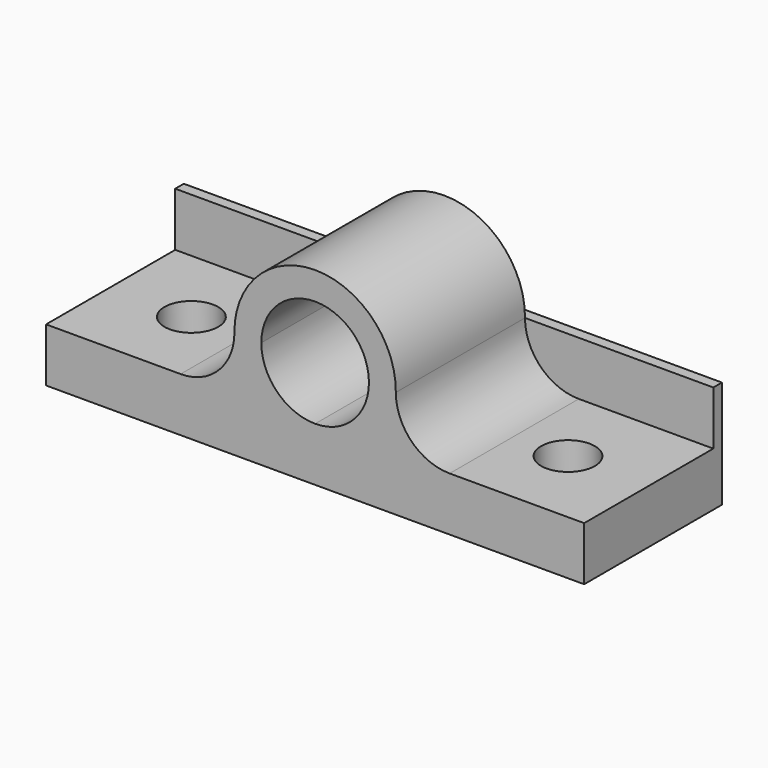
from build123d import *

# Parameters (mm, degrees)
F0_W     = 127
F0_H     = 25.4
F1_DEPTH = 2.54
F3_DEPTH = 38.1
F4_R     = 6.35
F5_DEPTH = 25.4


with BuildPart() as f1:
    # F0 (on Front) → F1 (new body)
    with BuildSketch(Plane.XZ):
        with Locations((-2.625061, -9.665867)):
            Rectangle(F0_W, F0_H)
        with Locations((-2.625061, -9.665867)):
            Rectangle(F0_W, F0_H)
    extrude(amount=F1_DEPTH)

    # F2 (on face) → F3 (join)
    with BuildSketch(Plane.XZ.offset(2.54)):
        with BuildLine():
            Line((-43.24917, -9.665867), (-66.125061, -9.665867))
            Line((-66.125061, -9.665867), (-66.125061, -22.365867))
            Line((-66.125061, -22.365867), (-2.625061, -22.365867))
            Line((-2.625061, -22.365867), (-2.625061, -9.665867))
            ThreePointArc((-2.625061, -9.665867), (-11.605317, -5.946123), (-15.325061, 3.034133))
            Line((-15.325061, 3.034133), (-21.675061, 3.034133))
            ThreePointArc((-21.675061, 3.034133), (-25.394805, -5.946123), (-34.375061, -9.665867))
            Line((-34.375061, -9.665867), (-43.24917, -9.665867))
        make_face()
        with BuildLine():
            ThreePointArc((16.424939, 3.034133), (-2.625061, 22.283079), (-21.675061, 3.034133))
            Line((-21.675061, 3.034133), (-15.325061, 3.034133))
            ThreePointArc((-15.325061, 3.034133), (-2.625061, 15.734133), (10.074939, 3.034133))
            Line((10.074939, 3.034133), (16.424939, 3.034133))
        make_face()
        with BuildLine():
            Line((-2.625061, -9.665867), (-2.625061, -22.365867))
            Line((-2.625061, -22.365867), (60.874939, -22.365867))
            Line((60.874939, -22.365867), (60.874939, -9.665867))
            Line((60.874939, -9.665867), (37.999048, -9.665867))
            Line((37.999048, -9.665867), (29.124939, -9.665867))
            ThreePointArc((29.124939, -9.665867), (20.144683, -5.946123), (16.424939, 3.034133))
            Line((16.424939, 3.034133), (10.074939, 3.034133))
            ThreePointArc((10.074939, 3.034133), (6.355195, -5.946123), (-2.625061, -9.665867))
        make_face()
    extrude(amount=F3_DEPTH)

    # F4 (on face) → F5 (cut)
    with BuildSketch(Plane.XY.offset(-9.665867)):
        with Locations((41.824939, -21.59)):
            Circle(F4_R)
        with Locations((-47.075061, -21.59)):
            Circle(F4_R)
    extrude(amount=-F5_DEPTH, mode=Mode.SUBTRACT)


solid = f1.part
